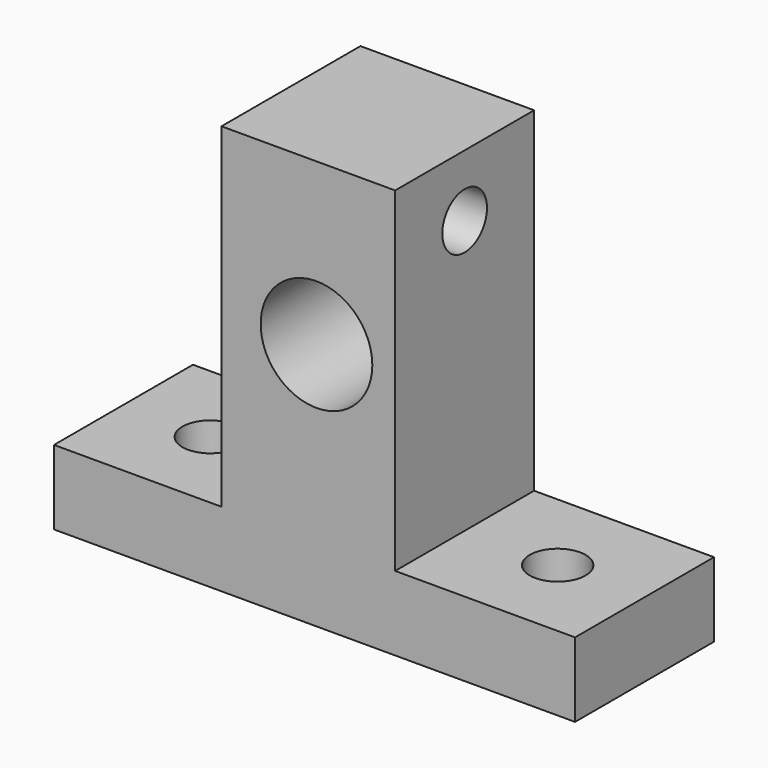
from build123d import *

# Parameters (mm, degrees)
CYLINDER003_R       = 2.25
CYLINDER003_DEPTH   = 10
CYLINDER002_R       = 2.25
CYLINDER002_DEPTH   = 10
CYLINDER001_R       = 2.25
CYLINDER001_DEPTH   = 30
CYLINDER_R          = 4.5
CYLINDER_DEPTH      = 30
CYLINDER_ROLL_ANGLE = 90
BOX001_W            = 14
BOX001_H            = 14
BOX001_DEPTH        = 27
BOX_W               = 42
BOX_H               = 14
BOX_DEPTH           = 6


with BuildPart() as cilindro003:
    # Cylinder003 → Cylinder003 (new body)
    with BuildSketch(Plane(origin=(35, 7, 0), x_dir=(1, 0, 0), z_dir=(0, 0, 1))):
        Circle(CYLINDER003_R)
    extrude(amount=CYLINDER003_DEPTH)


with BuildPart() as cilindro002:
    # Cylinder002 → Cylinder002 (new body)
    with BuildSketch(Plane(origin=(7, 7, 0), x_dir=(1, 0, 0), z_dir=(0, 0, 1))):
        Circle(CYLINDER002_R)
    extrude(amount=CYLINDER002_DEPTH)


with BuildPart() as cilindro001:
    # Cylinder001 → Cylinder001 (new body)
    with BuildSketch(Plane(origin=(10, 7, 28), x_dir=(0, 1, 0), z_dir=(1, 0, 0))):
        Circle(CYLINDER001_R)
    extrude(amount=CYLINDER001_DEPTH)


with BuildPart() as cilindro:
    # Cylinder → Cylinder (new body)
    with BuildSketch(Plane.XY):
        Circle(CYLINDER_R)
    extrude(amount=CYLINDER_DEPTH)


with BuildPart() as cilindro_1:
    # Cylinder roll: moved
    add(cilindro.part.rotate(Axis((0, 0, 0), (1, 0, 0)), CYLINDER_ROLL_ANGLE))


with BuildPart() as cilindro_2:
    # Cylinder placement: moved
    add(cilindro_1.part.moved(Location((21.158, 20, 20))))


with BuildPart() as cubo001:
    # Box001 → Box001 (new body)
    with BuildSketch(Plane(origin=(13.5, 0, 6), x_dir=(1, 0, 0), z_dir=(0, 0, 1))):
        with Locations((7, 7)):
            Rectangle(BOX001_W, BOX001_H)
    extrude(amount=BOX001_DEPTH)


with BuildPart() as cut003:
    # Box → Box (new body)
    with BuildSketch(Plane.XY):
        with Locations((21, 7)):
            Rectangle(BOX_W, BOX_H)
    extrude(amount=BOX_DEPTH)

    # Fusion: union Cubo001
    add(cubo001.part)

    # Cut: cut Cilindro
    add(cilindro_2.part, mode=Mode.SUBTRACT)

    # Cut001: cut Cilindro001
    add(cilindro001.part, mode=Mode.SUBTRACT)

    # Cut002: cut Cilindro002
    add(cilindro002.part, mode=Mode.SUBTRACT)

    # Cut003: cut Cilindro003
    add(cilindro003.part, mode=Mode.SUBTRACT)


solid = cut003.part
